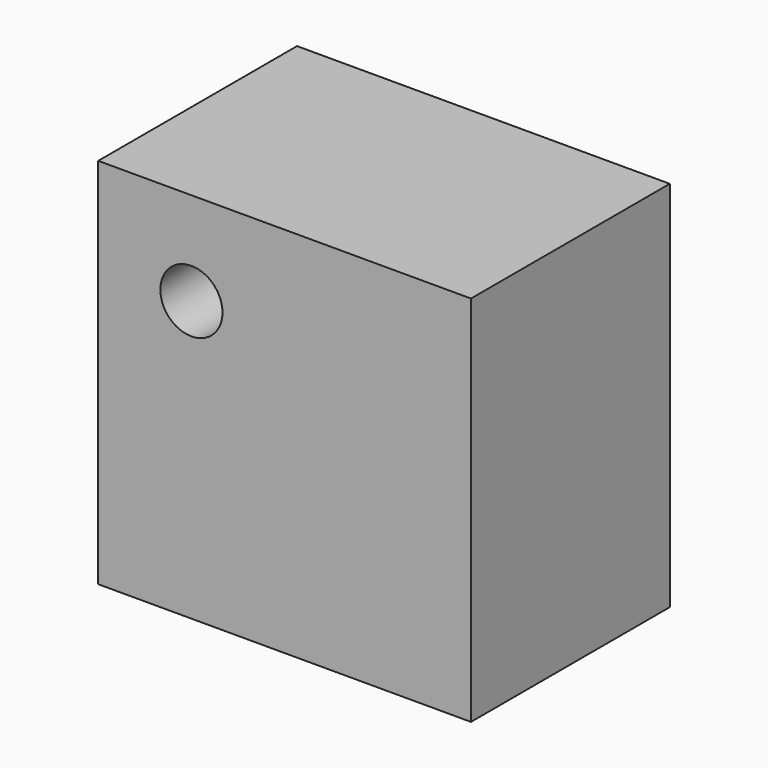
from build123d import *

# Parameters (mm, degrees)
F0_W     = 76.2
F0_H     = 76.2
F1_DEPTH = 25.4
F2_R     = 6.35
F3_DEPTH = 50.801


with BuildPart() as f1:
    # F0 (on Front) → F1 (new body, symmetric)
    with BuildSketch(Plane.XZ):
        Rectangle(F0_W, F0_H)
    extrude(amount=F1_DEPTH, both=True)

    # F2 (on face) → F3 (cut, through all)
    with BuildSketch(Plane.XZ.offset(25.4)):
        with Locations((-19.05, 19.05)):
            Circle(F2_R)
    extrude(amount=-F3_DEPTH, mode=Mode.SUBTRACT)


solid = f1.part
